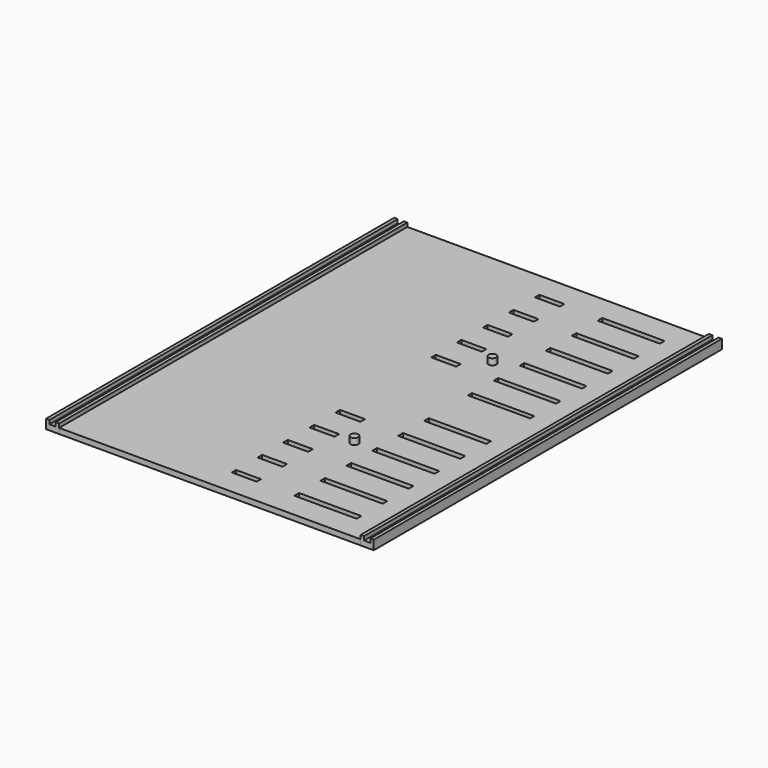
from build123d import *

# Parameters (mm, degrees)
CYLINDER_R        = 2.5
CYLINDER_DEPTH    = 7.5
CYLINDER001_R     = 2.5
CYLINDER001_DEPTH = 7.5
SKETCH001_W       = 194
SKETCH001_H       = 280
SKETCH001_R       = 2.5
SKETCH001_W_2     = 40.070037
SKETCH001_H_2     = 3.742279
SKETCH001_W_3     = 40.041212
SKETCH001_H_3     = 3.613129
SKETCH001_W_4     = 40.041216
SKETCH001_H_4     = 3.782791
SKETCH001_W_5     = 40.041217
SKETCH001_H_5     = 3.546326
SKETCH001_W_6     = 40.112851
SKETCH001_H_6     = 3.561458
SKETCH001_W_7     = 40.04122
SKETCH001_H_7     = 3.290631
SKETCH001_W_8     = 40.009301
SKETCH001_H_8     = 3.763773
SKETCH001_W_9     = 39.996402
SKETCH001_H_9     = 3.935853
SKETCH001_W_10    = 40.055051
SKETCH001_H_10    = 3.782642
SKETCH001_H_11    = 3.806805
SKETCH001_W_11    = 40.041219
SKETCH001_H_12    = 3.677757
SKETCH001_H_13    = 3.782761
SKETCH001_W_12    = 16.037044
SKETCH001_H_14    = 3.589706
SKETCH001_W_13    = 16.068943
SKETCH001_H_15    = 3.697831
SKETCH001_W_14    = 15.989025
SKETCH001_H_16    = 3.592186
SKETCH001_W_15    = 16.03704
SKETCH001_H_17    = 3.644962
SKETCH001_W_16    = 16.06895
SKETCH001_H_18    = 3.697864
SKETCH001_H_19    = 3.697834
SKETCH001_W_17    = 16.068947
SKETCH001_H_20    = 3.750667
SKETCH001_W_18    = 16.010303
SKETCH001_H_21    = 3.719536
SKETCH001_W_19    = 16.017021
SKETCH001_H_22    = 3.484192
EXTRUDE001_DEPTH  = 3.5
BOX016_W          = 4
BOX016_H          = 280
BOX016_DEPTH      = 3.5
BOX018_W          = 2.2
BOX018_H          = 280
BOX018_DEPTH      = 6
BOX017_W          = 2.2
BOX017_H          = 280
BOX017_DEPTH      = 6
BOX019_W          = 4
BOX019_H          = 280
BOX019_DEPTH      = 3.5
BOX021_W          = 2.2
BOX021_H          = 280
BOX021_DEPTH      = 6
BOX020_W          = 2.2
BOX020_H          = 280
BOX020_DEPTH      = 6


with BuildPart() as cylinder:
    # Cylinder → Cylinder (new body)
    with BuildSketch(Plane(origin=(-43.9, -39.2, 0), x_dir=(1, 0, 0), z_dir=(0, 0, 1))):
        Circle(CYLINDER_R)
    extrude(amount=CYLINDER_DEPTH)


with BuildPart() as cylinder001:
    # Cylinder001 → Cylinder001 (new body)
    with BuildSketch(Plane(origin=(-43.9, 71.8, 0), x_dir=(1, 0, 0), z_dir=(0, 0, 1))):
        Circle(CYLINDER001_R)
    extrude(amount=CYLINDER001_DEPTH)


with BuildPart() as plate:
    # Sketch001 → Extrude001 (new body)
    with BuildSketch(Plane.XY):
        with Locations((-72.853731, 20.822565)):
            Rectangle(SKETCH001_W, SKETCH001_H)
        with Locations((-43.853731, 71.822565)):
            Circle(SKETCH001_R, mode=Mode.SUBTRACT)
        with Locations((-43.853731, -39.177435)):
            Circle(SKETCH001_R, mode=Mode.SUBTRACT)
        with Locations((-11.460887, 142.774628)):
            Rectangle(SKETCH001_W_2, SKETCH001_H_2, mode=Mode.SUBTRACT)
        with Locations((-11.331136, 121.740501)):
            Rectangle(SKETCH001_W_3, SKETCH001_H_3, mode=Mode.SUBTRACT)
        with Locations((-11.464432, 100.989097)):
            Rectangle(SKETCH001_W_4, SKETCH001_H_4, mode=Mode.SUBTRACT)
        with Locations((-11.468796, 80.086075)):
            Rectangle(SKETCH001_W_5, SKETCH001_H_5, mode=Mode.SUBTRACT)
        with Locations((-11.467992, 59.173418)):
            Rectangle(SKETCH001_W_6, SKETCH001_H_6, mode=Mode.SUBTRACT)
        with Locations((-11.56887, 38.323995)):
            Rectangle(SKETCH001_W_7, SKETCH001_H_7, mode=Mode.SUBTRACT)
        with Locations((-11.437161, 3.188404)):
            Rectangle(SKETCH001_W_8, SKETCH001_H_8, mode=Mode.SUBTRACT)
        with Locations((-11.504416, -17.581663)):
            Rectangle(SKETCH001_W_9, SKETCH001_H_9, mode=Mode.SUBTRACT)
        with Locations((-11.430497, -38.487215)):
            Rectangle(SKETCH001_W_10, SKETCH001_H_10, mode=Mode.SUBTRACT)
        with Locations((-11.445175, -59.249788)):
            Rectangle(SKETCH001_W_5, SKETCH001_H_11, mode=Mode.SUBTRACT)
        with Locations((-11.417095, -80.225971)):
            Rectangle(SKETCH001_W_11, SKETCH001_H_12, mode=Mode.SUBTRACT)
        with Locations((-11.448836, -101.098243)):
            Rectangle(SKETCH001_W_11, SKETCH001_H_13, mode=Mode.SUBTRACT)
        with Locations((-63.903541, 142.81797)):
            Rectangle(SKETCH001_W_12, SKETCH001_H_14, mode=Mode.SUBTRACT)
        with Locations((-63.830264, 121.801971)):
            Rectangle(SKETCH001_W_13, SKETCH001_H_15, mode=Mode.SUBTRACT)
        with Locations((-63.791866, 100.945217)):
            Rectangle(SKETCH001_W_13, SKETCH001_H_12, mode=Mode.SUBTRACT)
        with Locations((-63.886082, 80.001514)):
            Rectangle(SKETCH001_W_14, SKETCH001_H_16, mode=Mode.SUBTRACT)
        with Locations((-63.768631, 59.263056)):
            Rectangle(SKETCH001_W_15, SKETCH001_H_17, mode=Mode.SUBTRACT)
        with Locations((-63.860941, -17.577925)):
            Rectangle(SKETCH001_W_16, SKETCH001_H_18, mode=Mode.SUBTRACT)
        with Locations((-63.880459, -38.44348)):
            Rectangle(SKETCH001_W_13, SKETCH001_H_19, mode=Mode.SUBTRACT)
        with Locations((-63.985134, -59.494722)):
            Rectangle(SKETCH001_W_17, SKETCH001_H_20, mode=Mode.SUBTRACT)
        with Locations((-63.874309, -80.230259)):
            Rectangle(SKETCH001_W_18, SKETCH001_H_21, mode=Mode.SUBTRACT)
        with Locations((-63.871902, -101.148766)):
            Rectangle(SKETCH001_W_19, SKETCH001_H_22, mode=Mode.SUBTRACT)
    extrude(amount=EXTRUDE001_DEPTH)

    # Fusion: union Cylinder, Cylinder001
    add(cylinder.part)
    add(cylinder001.part)


with BuildPart() as cube016:
    # Box016 → Box016 (new body)
    with BuildSketch(Plane(origin=(26.35, -119.2, 0), x_dir=(1, 0, 0), z_dir=(0, 0, 1))):
        with Locations((2, 140)):
            Rectangle(BOX016_W, BOX016_H)
    extrude(amount=BOX016_DEPTH)


with BuildPart() as cube018:
    # Box018 → Box018 (new body)
    with BuildSketch(Plane(origin=(30.35, -119.2, 0), x_dir=(1, 0, 0), z_dir=(0, 0, 1))):
        with Locations((1.1, 140)):
            Rectangle(BOX018_W, BOX018_H)
    extrude(amount=BOX018_DEPTH)


with BuildPart() as fusion001:
    # Box017 → Box017 (new body)
    with BuildSketch(Plane(origin=(24.15, -119.2, 0), x_dir=(1, 0, 0), z_dir=(0, 0, 1))):
        with Locations((1.1, 140)):
            Rectangle(BOX017_W, BOX017_H)
    extrude(amount=BOX017_DEPTH)

    # Fusion001: union Cube016, Cube018
    add(cube016.part)
    add(cube018.part)


with BuildPart() as cube019:
    # Box019 → Box019 (new body)
    with BuildSketch(Plane(origin=(26.35, -119.2, 0), x_dir=(1, 0, 0), z_dir=(0, 0, 1))):
        with Locations((2, 140)):
            Rectangle(BOX019_W, BOX019_H)
    extrude(amount=BOX019_DEPTH)


with BuildPart() as cube021:
    # Box021 → Box021 (new body)
    with BuildSketch(Plane(origin=(30.35, -119.2, 0), x_dir=(1, 0, 0), z_dir=(0, 0, 1))):
        with Locations((1.1, 140)):
            Rectangle(BOX021_W, BOX021_H)
    extrude(amount=BOX021_DEPTH)


with BuildPart() as plate001:
    # Box020 → Box020 (new body)
    with BuildSketch(Plane(origin=(24.15, -119.2, 0), x_dir=(1, 0, 0), z_dir=(0, 0, 1))):
        with Locations((1.1, 140)):
            Rectangle(BOX020_W, BOX020_H)
    extrude(amount=BOX020_DEPTH)

    # Fusion002: union Cube019, Cube021
    add(cube019.part)
    add(cube021.part)


with BuildPart() as plate001_1:
    # Fusion002 placement: moved
    add(plate001.part.moved(Location((-202.4, 0, 0))))

    # Fusion027: union plate, Fusion001
    add(plate.part)
    add(fusion001.part)


solid = plate001_1.part
